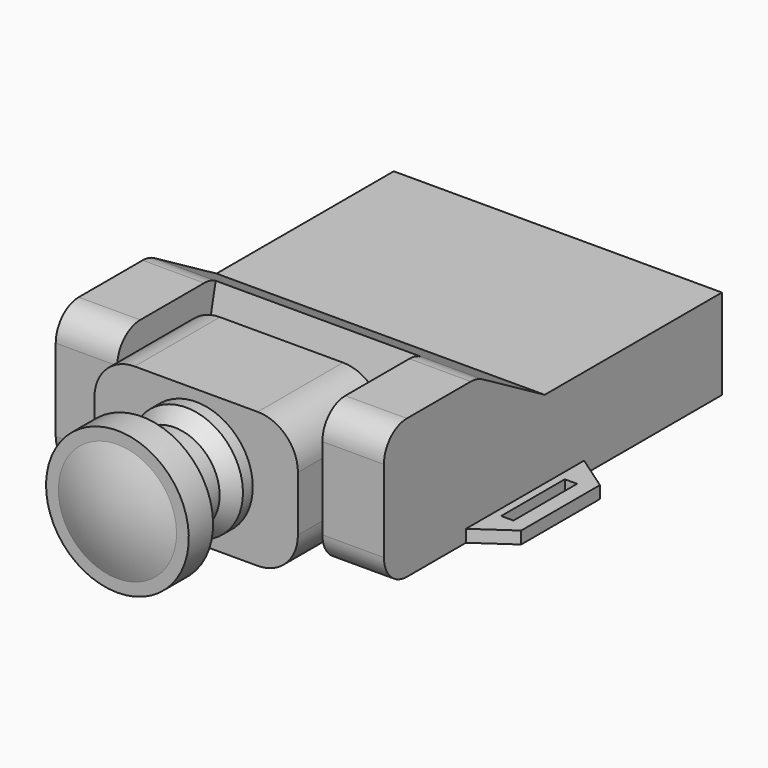
from build123d import *

# Parameters (mm, degrees)
F1_DEPTH  = 20
F3_DEPTH  = 17
F5_DEPTH  = 25
F7_DEPTH  = 1.5
F11_DEPTH = 13
F13_DEPTH = 42.1


with BuildPart() as f1:
    # F0 (on Right) → F1 (new body, symmetric)
    with BuildSketch(Plane.YZ):
        with BuildLine():
            Line((25.75, 0), (25.75, 11))
            Line((25.75, 11), (-1.25, 11))
            Line((-1.25, 11), (-10.75, 16.5254688627))
            ThreePointArc((-10.75, 16.5254688627), (-11.5984192745, 16.8792855028), (-12.5096983153, 17))
            Line((-12.5096983153, 17), (-22.25, 17))
            ThreePointArc((-22.25, 17), (-24.7248737342, 15.9748737342), (-25.75, 13.5))
            Line((-25.75, 13.5), (-25.75, 3.5))
            ThreePointArc((-25.75, 3.5), (-24.7248737342, 1.0251262658), (-22.25, 0))
            Line((-22.25, 0), (25.75, 0))
        make_face()
    extrude(amount=F1_DEPTH, both=True)

    # F2 (on face) → F3 (cut, through all)
    with BuildSketch(Plane.XY.offset(17)):
        Polygon((0, -12.5096983153), (-12.5, -12.5096983153), (-12.5, -25.75), (0, -25.75), (12.5, -25.75), (12.5, -12.5096983153), align=None)
    extrude(amount=-F3_DEPTH, mode=Mode.SUBTRACT)

    # F4 (on face) → F5 (cut, through all)
    with BuildSketch(Plane.YZ.offset(-12.5)):
        Polygon((-10.75, 0), (-12.5096983153, 8.5), (-12.5096983153, 0), align=None)
        with BuildLine():
            Line((-12.5096983153, 8.5), (-10.75, 16.5254688627))
            ThreePointArc((-10.75, 16.5254688627), (-11.5984192745, 16.8792855028), (-12.5096983153, 17))
            Line((-12.5096983153, 17), (-12.5096983153, 8.5))
        make_face()
    extrude(amount=F5_DEPTH, mode=Mode.SUBTRACT)

    # F6 (on face) → F7 (join)
    with BuildSketch(Plane(origin=(0, 0, 0), x_dir=(1, 0, 0), z_dir=(0, 0, -1))):
        Polygon((-24.33, -1.75), (-20, -4.75), (-20, 13.25), (-24.33, 10.25), (-24.33, 4.25), align=None)
        Polygon((-22.47, 4.25), (-22.47, 9.1), (-20.97, 9.1), (-20.97, 4.25), (-20.97, -0.6), (-22.47, -0.6), align=None, mode=Mode.SUBTRACT)
    extrude(amount=-F7_DEPTH)

    # F8: F1 across plane


with BuildPart() as f1_1:
    add(f1.part)
    add(f1.part.mirror(Plane.YZ))



with BuildPart() as f11:
    # F10 (on offset) → F11 (new body)
    with BuildSketch(Plane.XZ.offset(29.35)):
        with BuildLine():
            Line((0, 16.5254688627), (-7.5, 16.5254688627))
            ThreePointArc((-7.5, 16.5254688627), (-10.9648232278, 15.0902920905), (-12.4, 11.6254688627))
            Line((-12.4, 11.6254688627), (-12.4, 4.9))
            ThreePointArc((-12.4, 4.9), (-10.9648232278, 1.4351767722), (-7.5, 0))
            Line((-7.5, 0), (0, 0))
            Line((0, 0), (7.5, 0))
            ThreePointArc((7.5, 0), (10.9648232278, 1.4351767722), (12.4, 4.9))
            Line((12.4, 4.9), (12.4, 11.6254688627))
            ThreePointArc((12.4, 11.6254688627), (10.9648232278, 15.0902920905), (7.5, 16.5254688627))
            Line((7.5, 16.5254688627), (0, 16.5254688627))
        make_face()
    extrude(amount=-F11_DEPTH)


with BuildPart() as f1_2:
    add(f1_1.part)

    add(f11.part)  # F13 merges F11
    # F12 (on face) → F13 (join, through all)
    with BuildSketch(Plane(origin=(0, -16.35, 0), x_dir=(-1, 0, 0), z_dir=(0, 1, 0))):
        Polygon((0, 8.9999999979), (-5, 8.9999999979), (-5, 8.4999999979), (-5, 7.9999999979), (0, 7.9999999979), (5, 7.9999999979), (5, 8.4999999979), (5, 8.9999999979), align=None)
    extrude(amount=F13_DEPTH)

    # F14 (on Right) → F15 (revolve)
    with BuildSketch(Plane.YZ):
        with BuildLine():
            Line((-29.35, 4.9), (-29.35, 8.2627344313))
            Line((-29.35, 8.2627344313), (-41.35, 8.2627344313))
            Line((-41.35, 8.2627344313), (-42.85, 8.2627344313))
            ThreePointArc((-42.85, 8.2627344313), (-42.4710169679, 4.5854392297), (-41.35, 1.0627344313))
            Line((-41.35, 1.0627344313), (-41.35, -0.4372655687))
            Line((-41.35, -0.4372655687), (-37.65, -0.4372655687))
            Line((-37.65, -0.4372655687), (-37.65, 2.7627344313))
            Line((-37.65, 2.7627344313), (-32.65, 2.7627344313))
            Line((-32.65, 2.7627344313), (-30.85, 1.3627344313))
            Line((-30.85, 1.3627344313), (-29.35, 1.3627344313))
            Line((-29.35, 1.3627344313), (-29.35, 4.9))
        make_face()
    revolve(axis=Axis((0, -35.35, 8.2627344313), (0, -1, 0)))


solid = f1_2.part
